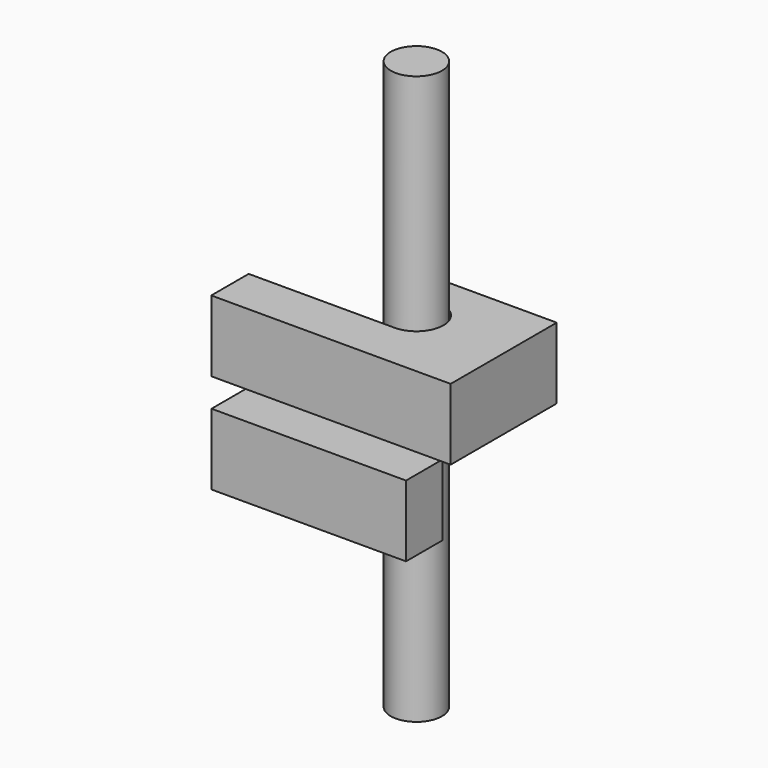
from build123d import *

# Parameters (mm, degrees)
F3_DEPTH      = 25
F4_DEPTH      = 25
F0_R          = 9
F5_DEPTH      = 113.59639
F5_DEPTH_BACK = 86.06808


with BuildPart() as f3:
    # F0 (on Top) → F3 (new body)
    with BuildSketch(Plane.XY):
        with BuildLine():
            ThreePointArc((3.441991, 34.376368), (0.513059, 41.447436), (-6.558009, 44.376368))
            Line((-6.558009, 44.376368), (-27.792332, 44.376368))
            ThreePointArc((-27.792332, 44.376368), (-34.8634, 41.447436), (-37.792332, 34.376368))
            Line((-37.792332, 34.376368), (-37.792332, 0))
            Line((-37.792332, 0), (30.539684, 0))
            Line((30.539684, 0), (30.539684, 15.919503))
            Line((30.539684, 15.919503), (13.441991, 15.919503))
            ThreePointArc((13.441991, 15.919503), (6.370923, 18.848435), (3.441991, 25.919503))
            Line((3.441991, 25.919503), (3.441991, 34.376368))
        make_face()
    extrude(amount=-F3_DEPTH)


with BuildPart() as f4:
    # F2 (on offset) → F4 (new body)
    with BuildSketch(Plane.XY.offset(10)):
        with BuildLine():
            Line((-37.878919, 16.419503), (-37.878919, 0))
            Line((-37.878919, 0), (46.218919, 0))
            Line((46.218919, 0), (46.218919, 46.590284))
            Line((46.218919, 46.590284), (-1.595739, 46.590284))
            Line((-1.595739, 46.590284), (-1.595739, 43.948493))
            Line((-1.595739, 43.948493), (0, 34.727512))
            Line((0, 34.727512), (9.882642, 34.727512))
            ThreePointArc((9.882642, 34.727512), (22.767389, 27.732499), (13.441991, 16.419503))
            Line((13.441991, 16.419503), (-37.878919, 16.419503))
        make_face()
    extrude(amount=F4_DEPTH)


with BuildPart() as f5:
    # F0 (on Top) → F5 (new body, two sides)
    with BuildSketch(Plane.XY) as f5_sk:
        with Locations((13.441991, 25.919503)):
            Circle(F0_R)
    extrude(amount=F5_DEPTH)
    extrude(f5_sk.sketch, amount=-F5_DEPTH_BACK)


solid = Compound([f3.part, f4.part, f5.part])
